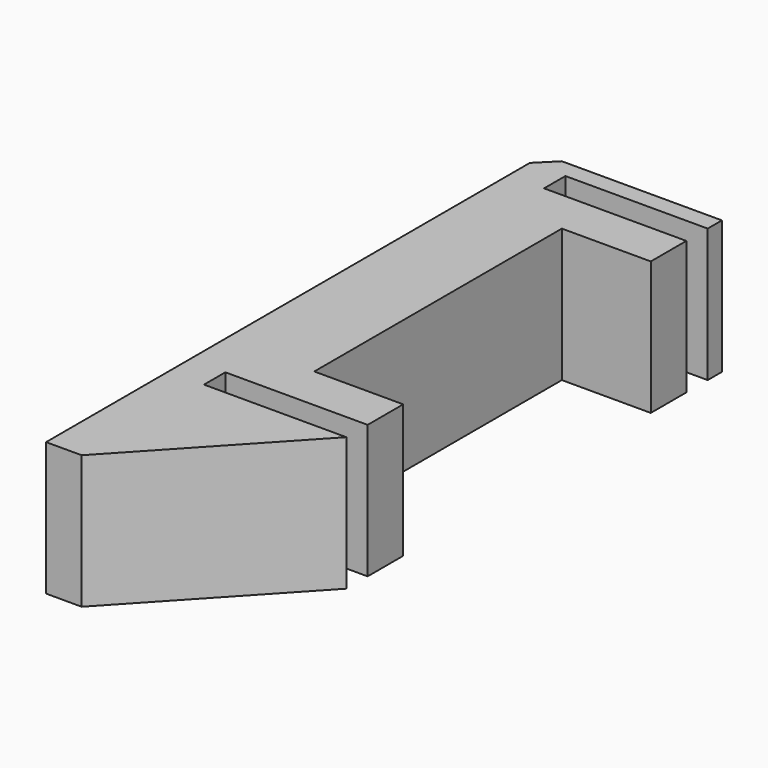
from build123d import *

# Parameters (mm, degrees)
F1_DEPTH = 15
F2_SIZE  = 2


with BuildPart() as f1:
    # F0 (on Top) → F1 (new body)
    with BuildSketch(Plane.XY):
        Polygon((20, 70), (0, 70), (0, 0), (4, 0), (20, 17.2), (4, 17.2), (4, 20.2), (20, 20.2), (20, 25.2), (10, 25.2), (10, 60), (20, 60), (20, 65), (4, 65), (4, 68), (20, 68), align=None)
    extrude(amount=F1_DEPTH)

    # F2
    f2_edges = [f1.edges().sort_by_distance(p)[0] for p in [
        (0, 70, 7.5),
    ]]
    chamfer(f2_edges, length=F2_SIZE)


solid = f1.part
